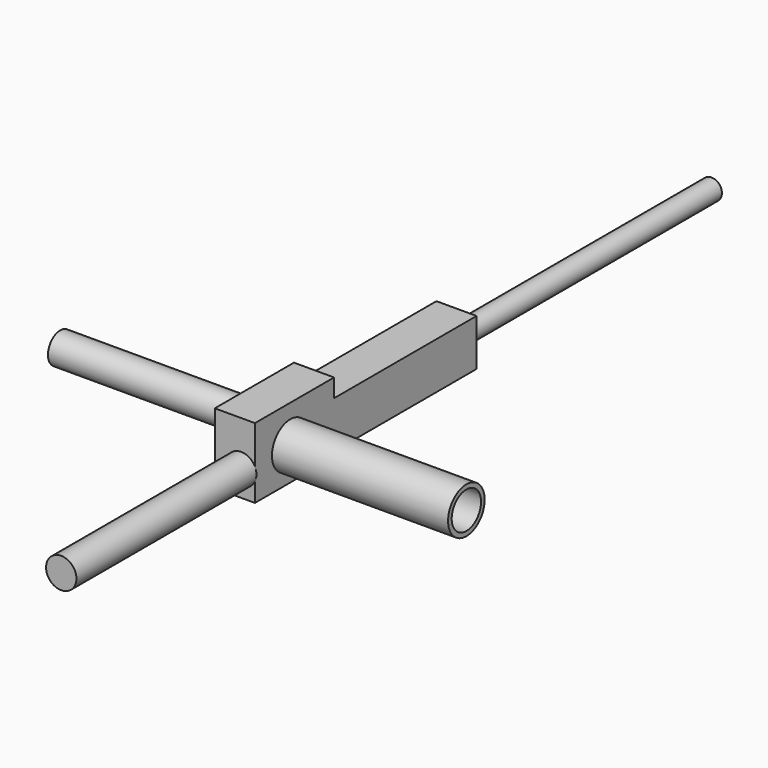
from build123d import *

# Parameters (mm, degrees)
F0_W      = 62.632754
F0_H      = 44.497188
F1_DEPTH  = 25.4
F2_R      = 9.609065
F3_DEPTH  = 142.494
F4_R      = 14.478505
F4_R_2    = 11.60909
F5_DEPTH  = 111.506
F6_R      = 9.726664
F7_DEPTH  = 125.476
F8_W      = 25.4
F8_H      = 29.555707
F9_DEPTH  = 112.776
F10_R     = 6.575743
F11_DEPTH = 201.168


with BuildPart() as f1:
    # F0 (on Right) → F1 (new body)
    with BuildSketch(Plane.YZ):
        with Locations((31.316377, -22.248594)):
            Rectangle(F0_W, F0_H)
    extrude(amount=F1_DEPTH)

    # F2 (on face) → F3 (join)
    with BuildSketch(Plane.XZ):
        with Locations((16.751623, -28.44735)):
            Circle(F2_R)
    extrude(amount=F3_DEPTH)

    # F4 (on face) → F5 (join)
    with BuildSketch(Plane.YZ.offset(25.4)):
        with Locations((27.960511, -23.682347)):
            Circle(F4_R)
        with Locations((27.960511, -23.682347)):
            Circle(F4_R_2, mode=Mode.SUBTRACT)
    extrude(amount=F5_DEPTH)

    # F6 (on face) → F7 (join)
    with BuildSketch(Plane(origin=(0, 0, 0), x_dir=(0, -1, 0), z_dir=(-1, 0, 0))):
        with Locations((-34.521122, -21.086203)):
            Circle(F6_R)
    extrude(amount=F7_DEPTH)

    # F8 (on face) → F9 (join)
    with BuildSketch(Plane(origin=(0, 62.632754, 0), x_dir=(-1, 0, 0), z_dir=(0, 1, 0))):
        with Locations((-12.7, -26.358702)):
            Rectangle(F8_W, F8_H)
    extrude(amount=F9_DEPTH)

    # F10 (on face) → F11 (join)
    with BuildSketch(Plane(origin=(0, 175.408754, 0), x_dir=(-1, 0, 0), z_dir=(0, 1, 0))):
        with Locations((-13.258439, -26.675297)):
            Circle(F10_R)
    extrude(amount=F11_DEPTH)


solid = f1.part
